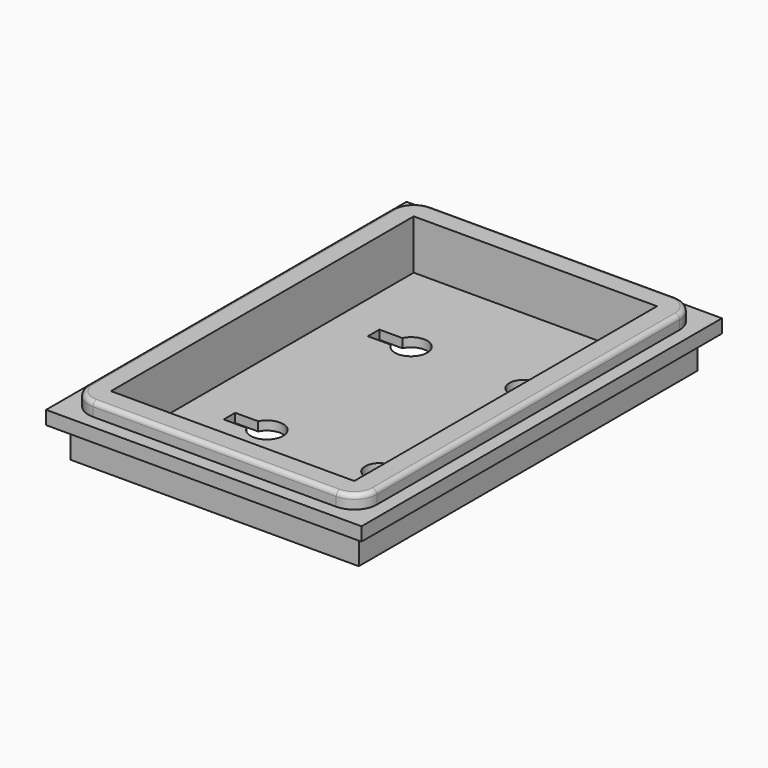
from build123d import *

# Parameters (mm, degrees)
SKETCH_W          = 70
SKETCH_H          = 100
PAD_DEPTH         = 3
SKETCH001_W       = 64
SKETCH001_H       = 94
PAD001_DEPTH      = 3
PAD001_DEPTH_BACK = 10
SKETCH002_W       = 54
SKETCH002_H       = 84
POCKET_DEPTH      = 11
SKETCH003_R       = 3.175
POCKET001_DEPTH   = 2.001
FILLET_R          = 5
FILLET001_R       = 5
FILLET002_R       = 5
FILLET003_R       = 5
FILLET004_R       = 1


with BuildPart() as part:
    # Sketch → Pad (new body)
    with BuildSketch(Plane.XY):
        with Locations((35, 50)):
            Rectangle(SKETCH_W, SKETCH_H)
    extrude(amount=PAD_DEPTH)

    # Sketch001 (on Face6 of Pad) → Pad001 (join, two sides)
    with BuildSketch(Plane.XY.offset(3)) as pad001_sk:
        with Locations((35, 50)):
            Rectangle(SKETCH001_W, SKETCH001_H)
    extrude(amount=PAD001_DEPTH)
    extrude(pad001_sk.sketch, amount=-PAD001_DEPTH_BACK)

    # Sketch002 (on Face16 of Pad001) → Pocket (cut)
    with BuildSketch(Plane.XY.offset(6)):
        with Locations((35, 50)):
            Rectangle(SKETCH002_W, SKETCH002_H)
    extrude(amount=-POCKET_DEPTH, mode=Mode.SUBTRACT)

    # Sketch003 (on Face21 of Pocket) → Pocket001 (cut, through all)
    with BuildSketch(Plane.XY.offset(-5)):
        with Locations((50, 30)):
            Circle(SKETCH003_R)
        with Locations((50, 70)):
            Circle(SKETCH003_R)
        with BuildLine():
            ThreePointArc((21.775097, 28.4), (28.6, 30), (21.775097, 31.6))
            Line((16.7, 31.6), (21.775097, 31.6))
            Line((16.7, 28.4), (16.7, 31.6))
            Line((21.775097, 28.4), (16.7, 28.4))
        make_face()
        with BuildLine():
            ThreePointArc((21.775097, 68.4), (28.6, 70), (21.775097, 71.6))
            Line((16.7, 71.6), (21.775097, 71.6))
            Line((16.7, 68.4), (16.7, 71.6))
            Line((21.775097, 68.4), (16.7, 68.4))
        make_face()
    extrude(amount=-POCKET001_DEPTH, mode=Mode.SUBTRACT)

    # Fillet
    fillet_edges = [part.edges().sort_by_distance(p)[0] for p in [
        (3, 3, 4.5),
    ]]
    fillet(fillet_edges, radius=FILLET_R)

    # Fillet001
    fillet001_edges = [part.edges().sort_by_distance(p)[0] for p in [
        (67, 3, 4.5),
    ]]
    fillet(fillet001_edges, radius=FILLET001_R)

    # Fillet002
    fillet002_edges = [part.edges().sort_by_distance(p)[0] for p in [
        (67, 97, 4.5),
    ]]
    fillet(fillet002_edges, radius=FILLET002_R)

    # Fillet003
    fillet003_edges = [part.edges().sort_by_distance(p)[0] for p in [
        (3, 97, 4.5),
    ]]
    fillet(fillet003_edges, radius=FILLET003_R)

    # Fillet004
    fillet004_edges = [part.edges().sort_by_distance(p)[0] for p in [
        (35, 97, 6),
    ]]
    fillet(fillet004_edges, radius=FILLET004_R)


solid = part.part
